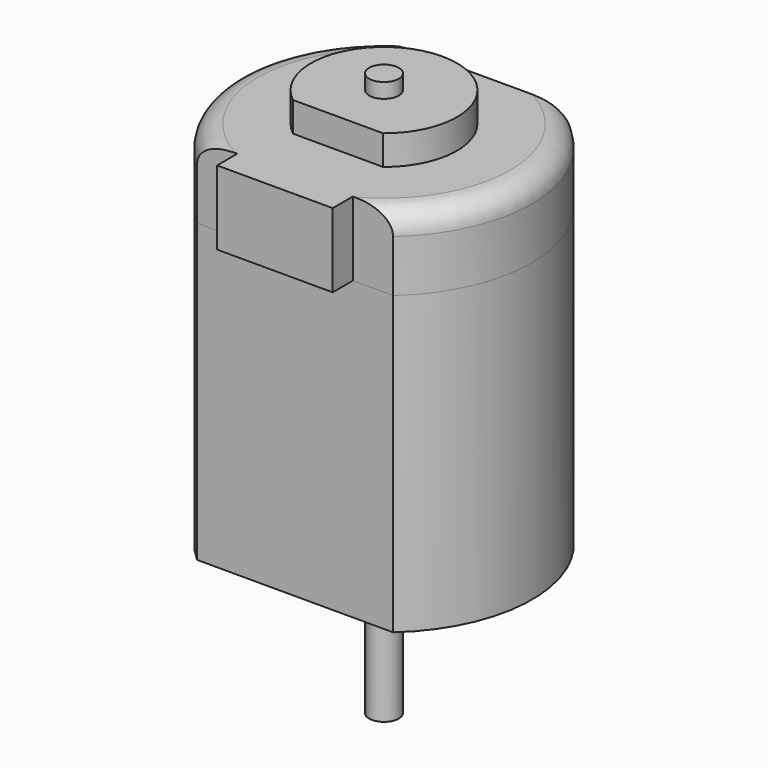
from build123d import *

# Parameters (mm, degrees)
PAD_DEPTH         = 10
PAD001_DEPTH      = 5
PAD003_DEPTH      = 2
FILLET_R          = 1.5
SKETCH002_R       = 1
PAD002_DEPTH      = 18
PAD002_DEPTH_BACK = 20


with BuildPart() as metal:
    # Sketch → Pad (new body, symmetric)
    with BuildSketch(Plane.XY):
        with BuildLine():
            ThreePointArc((-6.614378, 7.5), (-10, 0), (-6.614378, -7.5))
            Line((6.614378, -7.5), (-6.614378, -7.5))
            ThreePointArc((6.614378, -7.5), (10, 0), (6.614378, 7.5))
            Line((-6.614378, 7.5), (6.614378, 7.5))
        make_face()
    extrude(amount=PAD_DEPTH, both=True)


with BuildPart() as plastic:
    # Sketch001 → Pad001 (new body)
    with BuildSketch(Plane.XY.offset(10)):
        with BuildLine():
            ThreePointArc((-6.614378, 7.5), (-10, 0), (-6.614378, -7.5))
            Line((-6.614378, -7.5), (-3.9, -7.5))
            Line((-3.9, -7.5), (-3.9, -9.2))
            Line((-3.9, -9.2), (3.9, -9.2))
            Line((3.9, -9.2), (3.9, -7.5))
            Line((3.9, -7.5), (6.614378, -7.5))
            ThreePointArc((6.614378, -7.5), (10, 0), (6.614378, 7.5))
            Line((-6.614378, 7.5), (6.614378, 7.5))
        make_face()
    extrude(amount=PAD001_DEPTH)

    # Sketch003 (on Face10 of Pad001) → Pad003 (join)
    with BuildSketch(Plane.XY.offset(15)):
        with BuildLine():
            ThreePointArc((3.039737, -3.875), (0, 4.925), (-3.039737, -3.875))
            Line((-3.039737, -3.875), (3.039737, -3.875))
        make_face()
    extrude(amount=PAD003_DEPTH)

    # Fillet
    fillet_edges = [plastic.edges().sort_by_distance(p)[0] for p in [
        (10, 0, 15),
        (-10, 0, 15),
    ]]
    fillet(fillet_edges, radius=FILLET_R)


with BuildPart() as axis:
    # Sketch002 → Pad002 (new body, two sides)
    with BuildSketch(Plane.XY) as pad002_sk:
        Circle(SKETCH002_R)
    extrude(amount=PAD002_DEPTH)
    extrude(pad002_sk.sketch, amount=-PAD002_DEPTH_BACK)


solid = Compound([metal.part, plastic.part, axis.part])
